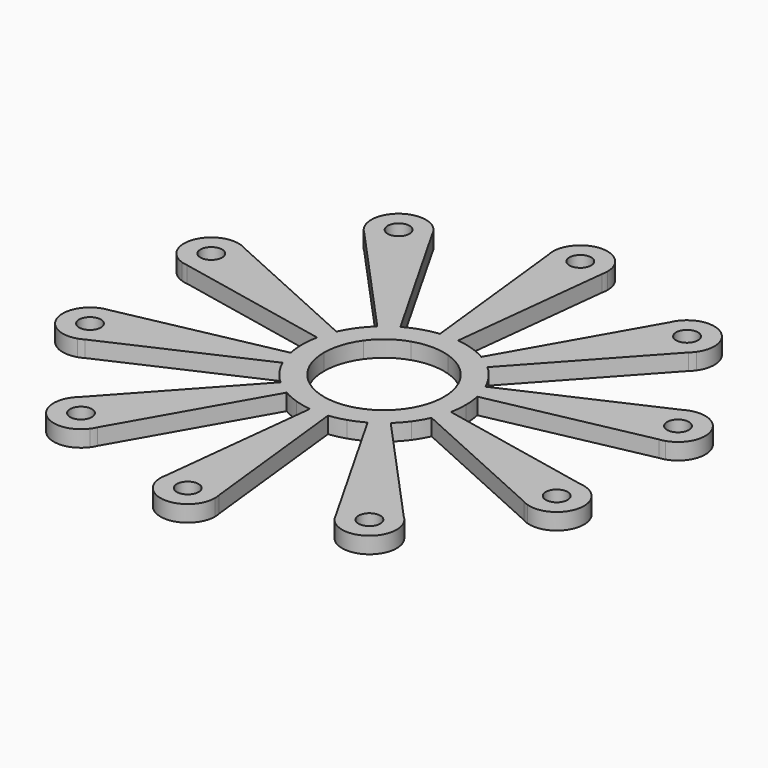
from build123d import *

# Parameters (mm, degrees)
F0_R     = 2
F1_DEPTH = 3


with BuildPart() as f1:
    # F0 (on Top) → F1 (new body)
    with BuildSketch(Plane.XY):
        with BuildLine():
            ThreePointArc((7.422738, 13.034683), (6.060342, 13.721234), (4.635255, 14.265848))
            ThreePointArc((4.635255, 14.265848), (3.162219, 14.662891), (1.656473, 14.908256))
            ThreePointArc((1.656473, 14.908256), (0, 15), (-1.656473, 14.908256))
            ThreePointArc((-1.656473, 14.908256), (-3.162219, 14.662891), (-4.635255, 14.265848))
            ThreePointArc((-4.635255, 14.265848), (-6.060342, 13.721234), (-7.422738, 13.034683))
            ThreePointArc((-7.422738, 13.034683), (-8.816779, 12.135255), (-10.102968, 11.087382))
            ThreePointArc((-10.102968, 11.087382), (-11.17692, 10.003822), (-12.135255, 8.816779))
            ThreePointArc((-12.135255, 8.816779), (-12.968058, 7.538532), (-13.666716, 6.182304))
            ThreePointArc((-13.666716, 6.182304), (-14.265848, 4.635255), (-14.690472, 3.031505))
            ThreePointArc((-14.690472, 3.031505), (-14.922417, 1.523633), (-15, 0))
            ThreePointArc((-15, 0), (-14.922417, -1.523633), (-14.690472, -3.031505))
            ThreePointArc((-14.690472, -3.031505), (-14.265848, -4.635255), (-13.666716, -6.182304))
            ThreePointArc((-13.666716, -6.182304), (-12.968058, -7.538532), (-12.135255, -8.816779))
            ThreePointArc((-12.135255, -8.816779), (-11.17692, -10.003822), (-10.102968, -11.087382))
            ThreePointArc((-10.102968, -11.087382), (-8.816779, -12.135255), (-7.422738, -13.034683))
            ThreePointArc((-7.422738, -13.034683), (-6.060342, -13.721234), (-4.635255, -14.265848))
            ThreePointArc((-4.635255, -14.265848), (-3.162219, -14.662891), (-1.656473, -14.908256))
            ThreePointArc((-1.656473, -14.908256), (0, -15), (1.656473, -14.908256))
            ThreePointArc((1.656473, -14.908256), (3.162219, -14.662891), (4.635255, -14.265848))
            ThreePointArc((4.635255, -14.265848), (6.060342, -13.721234), (7.422738, -13.034683))
            ThreePointArc((7.422738, -13.034683), (8.816779, -12.135255), (10.102968, -11.087382))
            ThreePointArc((10.102968, -11.087382), (11.17692, -10.003822), (12.135255, -8.816779))
            ThreePointArc((12.135255, -8.816779), (12.968058, -7.538532), (13.666716, -6.182304))
            ThreePointArc((13.666716, -6.182304), (14.265848, -4.635255), (14.690472, -3.031505))
            ThreePointArc((14.690472, -3.031505), (14.922417, -1.523633), (15, 0))
            ThreePointArc((15, 0), (14.922417, 1.523633), (14.690472, 3.031505))
            ThreePointArc((14.690472, 3.031505), (14.265848, 4.635255), (13.666716, 6.182304))
            ThreePointArc((13.666716, 6.182304), (12.968058, 7.538532), (12.135255, 8.816779))
            ThreePointArc((12.135255, 8.816779), (11.17692, 10.003822), (10.102968, 11.087382))
            ThreePointArc((10.102968, 11.087382), (8.816779, 12.135255), (7.422738, 13.034683))
        make_face()
        with BuildLine():
            ThreePointArc((-3.399187, 10.461622), (0, 11), (3.399187, 10.461622))
            ThreePointArc((3.399187, 10.461622), (6.465638, 8.899187), (8.899187, 6.465638))
            ThreePointArc((8.899187, 6.465638), (10.461622, 3.399187), (11, 0))
            ThreePointArc((11, 0), (10.461622, -3.399187), (8.899187, -6.465638))
            ThreePointArc((8.899187, -6.465638), (6.465638, -8.899187), (3.399187, -10.461622))
            ThreePointArc((3.399187, -10.461622), (0, -11), (-3.399187, -10.461622))
            ThreePointArc((-3.399187, -10.461622), (-6.465638, -8.899187), (-8.899187, -6.465638))
            ThreePointArc((-8.899187, -6.465638), (-10.461622, -3.399187), (-11, 0))
            ThreePointArc((-11, 0), (-10.461622, 3.399187), (-8.899187, 6.465638))
            ThreePointArc((-8.899187, 6.465638), (-6.465638, 8.899187), (-3.399187, 10.461622))
        make_face(mode=Mode.SUBTRACT)
        with BuildLine():
            ThreePointArc((-1.656473, 14.908256), (0, 15), (1.656473, 14.908256))
            Line((1.656473, 14.908256), (4.878049, 43.902439))
            Line((4.878049, 43.902439), (5, 45))
            ThreePointArc((5, 45), (0, 50), (-5, 45))
            Line((-5, 45), (-4.878049, 43.902439))
            Line((-4.878049, 43.902439), (-1.656473, 14.908256))
        make_face()
        with Locations((0, 45)):
            Circle(F0_R, mode=Mode.SUBTRACT)
        with BuildLine():
            Line((21.858782, 38.385064), (7.422738, 13.034683))
            ThreePointArc((7.422738, 13.034683), (8.816779, 12.135255), (10.102968, 11.087382))
            Line((10.102968, 11.087382), (29.751631, 32.650574))
            Line((29.751631, 32.650574), (30.495421, 33.466838))
            ThreePointArc((30.495421, 33.466838), (29.389263, 40.45085), (22.405251, 39.344691))
            Line((22.405251, 39.344691), (21.858782, 38.385064))
        make_face()
        with Locations((26.450336, 36.405765)):
            Circle(F0_R, mode=Mode.SUBTRACT)
        with BuildLine():
            Line((5, 45), (4.878049, 43.902439))
            ThreePointArc((4.878049, 43.902439), (4.969419, 44.447842), (5, 45))
        make_face()
        with BuildLine():
            ThreePointArc((22.405251, 39.344691), (22.105442, 38.880011), (21.858782, 38.385064))
            Line((21.858782, 38.385064), (22.405251, 39.344691))
        make_face()
        with BuildLine():
            ThreePointArc((-5, 45), (-4.969419, 44.447842), (-4.878049, 43.902439))
            Line((-4.878049, 43.902439), (-5, 45))
        make_face()
        with BuildLine():
            Line((30.495421, 33.466838), (29.751631, 32.650574))
            ThreePointArc((29.751631, 32.650574), (30.14613, 33.038109), (30.495421, 33.466838))
        make_face()
        with BuildLine():
            ThreePointArc((-10.102968, 11.087382), (-8.816779, 12.135255), (-7.422738, 13.034683))
            Line((-7.422738, 13.034683), (-21.858782, 38.385064))
            Line((-21.858782, 38.385064), (-22.405251, 39.344691))
            ThreePointArc((-22.405251, 39.344691), (-29.389263, 40.45085), (-30.495421, 33.466838))
            Line((-30.495421, 33.466838), (-29.751631, 32.650574))
            Line((-29.751631, 32.650574), (-10.102968, 11.087382))
        make_face()
        with Locations((-26.450336, 36.405765)):
            Circle(F0_R, mode=Mode.SUBTRACT)
        with BuildLine():
            Line((40.246301, 18.2059), (13.666716, 6.182304))
            ThreePointArc((13.666716, 6.182304), (14.265848, 4.635255), (14.690472, 3.031505))
            Line((14.690472, 3.031505), (43.261101, 8.9273))
            Line((43.261101, 8.9273), (44.342628, 9.150482))
            ThreePointArc((44.342628, 9.150482), (47.552826, 15.45085), (41.252458, 18.661047))
            Line((41.252458, 18.661047), (40.246301, 18.2059))
        make_face()
        with Locations((42.797543, 13.905765)):
            Circle(F0_R, mode=Mode.SUBTRACT)
        with BuildLine():
            Line((-22.405251, 39.344691), (-21.858782, 38.385064))
            ThreePointArc((-21.858782, 38.385064), (-22.105442, 38.880011), (-22.405251, 39.344691))
        make_face()
        with BuildLine():
            ThreePointArc((41.252458, 18.661047), (40.736775, 18.461337), (40.246301, 18.2059))
            Line((40.246301, 18.2059), (41.252458, 18.661047))
        make_face()
        with BuildLine():
            ThreePointArc((-30.495421, 33.466838), (-30.14613, 33.038109), (-29.751631, 32.650574))
            Line((-29.751631, 32.650574), (-30.495421, 33.466838))
        make_face()
        with BuildLine():
            Line((44.342628, 9.150482), (43.261101, 8.9273))
            ThreePointArc((43.261101, 8.9273), (43.808045, 9.008941), (44.342628, 9.150482))
        make_face()
        with BuildLine():
            ThreePointArc((-14.690472, 3.031505), (-14.265848, 4.635255), (-13.666716, 6.182304))
            Line((-13.666716, 6.182304), (-40.246301, 18.2059))
            Line((-40.246301, 18.2059), (-41.252458, 18.661047))
            ThreePointArc((-41.252458, 18.661047), (-47.552826, 15.45085), (-44.342628, 9.150482))
            Line((-44.342628, 9.150482), (-43.261101, 8.9273))
            Line((-43.261101, 8.9273), (-14.690472, 3.031505))
        make_face()
        with Locations((-42.797543, 13.905765)):
            Circle(F0_R, mode=Mode.SUBTRACT)
        with BuildLine():
            Line((43.261101, -8.9273), (14.690472, -3.031505))
            ThreePointArc((14.690472, -3.031505), (14.265848, -4.635255), (13.666716, -6.182304))
            Line((13.666716, -6.182304), (40.246301, -18.2059))
            Line((40.246301, -18.2059), (41.252458, -18.661047))
            ThreePointArc((41.252458, -18.661047), (47.552826, -15.45085), (44.342628, -9.150482))
            Line((44.342628, -9.150482), (43.261101, -8.9273))
        make_face()
        with Locations((42.797543, -13.905765)):
            Circle(F0_R, mode=Mode.SUBTRACT)
        with BuildLine():
            Line((-41.252458, 18.661047), (-40.246301, 18.2059))
            ThreePointArc((-40.246301, 18.2059), (-40.736775, 18.461337), (-41.252458, 18.661047))
        make_face()
        with BuildLine():
            ThreePointArc((44.342628, -9.150482), (43.808045, -9.008941), (43.261101, -8.9273))
            Line((43.261101, -8.9273), (44.342628, -9.150482))
        make_face()
        with BuildLine():
            ThreePointArc((-44.342628, 9.150482), (-43.808045, 9.008941), (-43.261101, 8.9273))
            Line((-43.261101, 8.9273), (-44.342628, 9.150482))
        make_face()
        with BuildLine():
            Line((41.252458, -18.661047), (40.246301, -18.2059))
            ThreePointArc((40.246301, -18.2059), (40.736775, -18.461337), (41.252458, -18.661047))
        make_face()
        with BuildLine():
            ThreePointArc((-13.666716, -6.182304), (-14.265848, -4.635255), (-14.690472, -3.031505))
            Line((-14.690472, -3.031505), (-43.261101, -8.9273))
            Line((-43.261101, -8.9273), (-44.342628, -9.150482))
            ThreePointArc((-44.342628, -9.150482), (-47.552826, -15.45085), (-41.252458, -18.661047))
            Line((-41.252458, -18.661047), (-40.246301, -18.2059))
            Line((-40.246301, -18.2059), (-13.666716, -6.182304))
        make_face()
        with Locations((-42.797543, -13.905765)):
            Circle(F0_R, mode=Mode.SUBTRACT)
        with BuildLine():
            Line((29.751631, -32.650574), (10.102968, -11.087382))
            ThreePointArc((10.102968, -11.087382), (8.816779, -12.135255), (7.422738, -13.034683))
            Line((7.422738, -13.034683), (21.858782, -38.385064))
            Line((21.858782, -38.385064), (22.405251, -39.344691))
            ThreePointArc((22.405251, -39.344691), (29.389263, -40.45085), (30.495421, -33.466838))
            Line((30.495421, -33.466838), (29.751631, -32.650574))
        make_face()
        with Locations((26.450336, -36.405765)):
            Circle(F0_R, mode=Mode.SUBTRACT)
        with BuildLine():
            Line((-44.342628, -9.150482), (-43.261101, -8.9273))
            ThreePointArc((-43.261101, -8.9273), (-43.808045, -9.008941), (-44.342628, -9.150482))
        make_face()
        with BuildLine():
            ThreePointArc((30.495421, -33.466838), (30.14613, -33.038109), (29.751631, -32.650574))
            Line((29.751631, -32.650574), (30.495421, -33.466838))
        make_face()
        with BuildLine():
            ThreePointArc((-41.252458, -18.661047), (-40.736775, -18.461337), (-40.246301, -18.2059))
            Line((-40.246301, -18.2059), (-41.252458, -18.661047))
        make_face()
        with BuildLine():
            Line((22.405251, -39.344691), (21.858782, -38.385064))
            ThreePointArc((21.858782, -38.385064), (22.105442, -38.880011), (22.405251, -39.344691))
        make_face()
        with BuildLine():
            ThreePointArc((-7.422738, -13.034683), (-8.816779, -12.135255), (-10.102968, -11.087382))
            Line((-10.102968, -11.087382), (-29.751631, -32.650574))
            Line((-29.751631, -32.650574), (-30.495421, -33.466838))
            ThreePointArc((-30.495421, -33.466838), (-29.389263, -40.45085), (-22.405251, -39.344691))
            Line((-22.405251, -39.344691), (-21.858782, -38.385064))
            Line((-21.858782, -38.385064), (-7.422738, -13.034683))
        make_face()
        with Locations((-26.450336, -36.405765)):
            Circle(F0_R, mode=Mode.SUBTRACT)
        with BuildLine():
            Line((4.878049, -43.902439), (1.656473, -14.908256))
            ThreePointArc((1.656473, -14.908256), (0, -15), (-1.656473, -14.908256))
            Line((-1.656473, -14.908256), (-4.878049, -43.902439))
            Line((-4.878049, -43.902439), (-5, -45))
            ThreePointArc((-5, -45), (0, -50), (5, -45))
            Line((5, -45), (4.878049, -43.902439))
        make_face()
        with Locations((0, -45)):
            Circle(F0_R, mode=Mode.SUBTRACT)
        with BuildLine():
            Line((-30.495421, -33.466838), (-29.751631, -32.650574))
            ThreePointArc((-29.751631, -32.650574), (-30.14613, -33.038109), (-30.495421, -33.466838))
        make_face()
        with BuildLine():
            ThreePointArc((5, -45), (4.969419, -44.447842), (4.878049, -43.902439))
            Line((4.878049, -43.902439), (5, -45))
        make_face()
        with BuildLine():
            ThreePointArc((-22.405251, -39.344691), (-22.105442, -38.880011), (-21.858782, -38.385064))
            Line((-21.858782, -38.385064), (-22.405251, -39.344691))
        make_face()
        with BuildLine():
            Line((-5, -45), (-4.878049, -43.902439))
            ThreePointArc((-4.878049, -43.902439), (-4.969419, -44.447842), (-5, -45))
        make_face()
    extrude(amount=F1_DEPTH)


solid = f1.part
